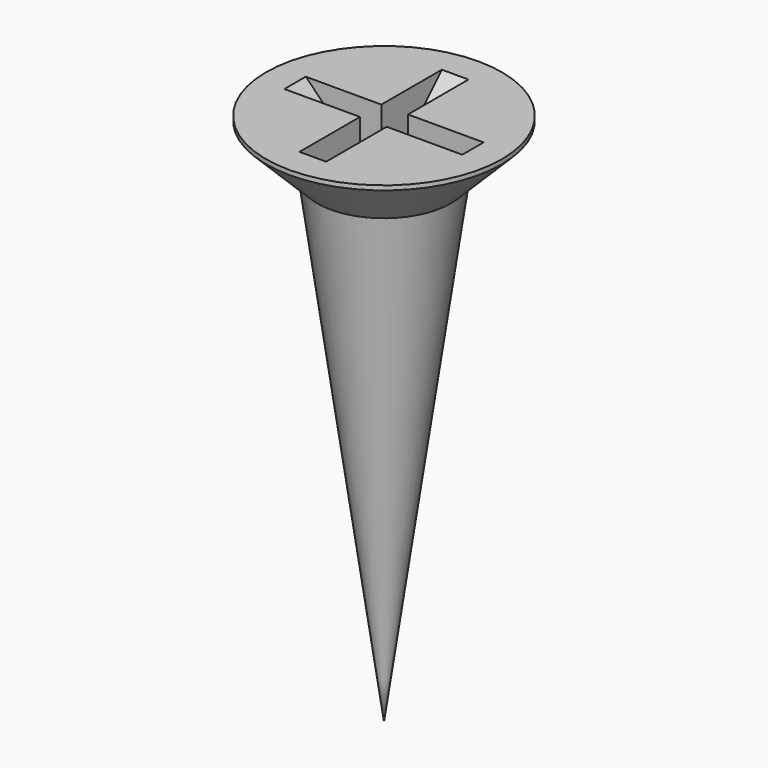
from build123d import *

# Parameters (mm, degrees)
POCKET002_DEPTH       = 0.3
POLARPATTERN001_COUNT = 2
POLARPATTERN001_ANGLE = 90


with BuildPart() as part:
    # Sketch015 → Revolution001 (revolve)
    with BuildSketch(Plane.XZ):
        Polygon((0, 0), (0, -12), (1.5, -1.25), (2.65, -0.1), (2.65, 0), align=None)
    revolve(axis=Axis((0, 0, 0), (0, 0, 1)))

    # Sketch016 → Pocket002 (cut, symmetric)
    with BuildSketch(Plane.XZ):
        Polygon((-2, 0), (0, -2), (2, 0), align=None)
    pocket002 = extrude(amount=POCKET002_DEPTH, both=True, mode=Mode.SUBTRACT)

    # PolarPattern001: Pocket002 ×2 about axis
    polarpattern001_axis = Axis((0, 0, 0), (0, 0, 1))
    for i in range(1, POLARPATTERN001_COUNT):
        add(pocket002.rotate(polarpattern001_axis, i * POLARPATTERN001_ANGLE / (POLARPATTERN001_COUNT - 1)), mode=Mode.SUBTRACT)


with BuildPart() as part_1:
    # Body012 placement: moved
    add(part.part.moved(Location((-17, -17, 12))))


solid = part_1.part
